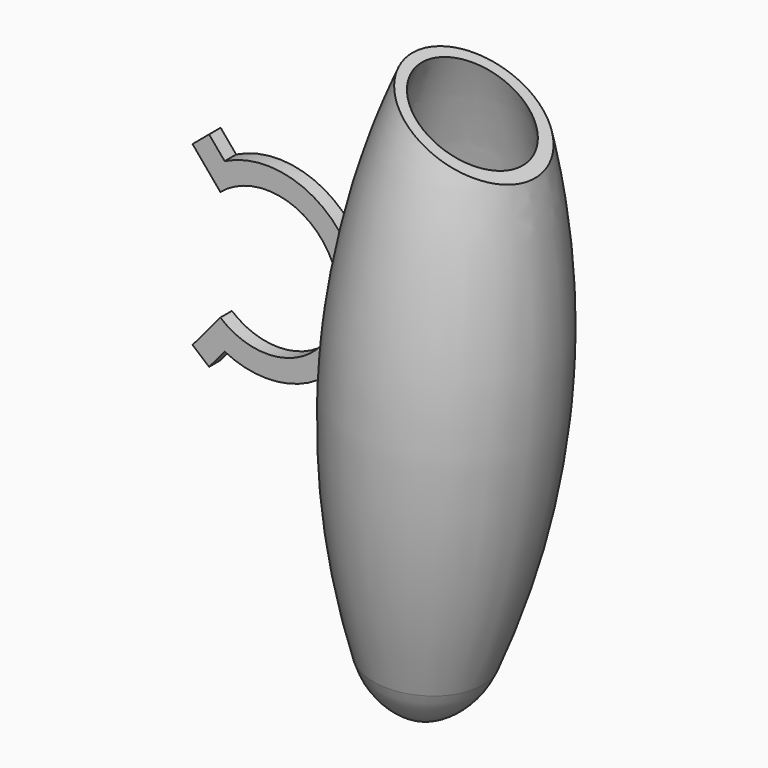
from build123d import *

# Parameters (mm, degrees)
F1_DEPTH = 2
F6_DEPTH = 12.5


with BuildPart() as f1:
    # F0 (on Front) → F1 (new body)
    with BuildSketch(Plane.XZ):
        with BuildLine():
            ThreePointArc((-47.1787418025, 7.6604444312), (-30.7508657056, 0), (-47.1787418025, -7.6604444312))
            Line((-47.1787418025, -7.6604444312), (-51.0354674606, -12.2567110899))
            Line((-51.0354674606, -12.2567110899), (-48.7373341312, -14.185073919))
            Line((-48.7373341312, -14.185073919), (-46.5834239696, -11.6181437457))
            ThreePointArc((-46.5834239696, -11.6181437457), (-27.7508657056, 0), (-46.5834239696, 11.6181437457))
            Line((-46.5834239696, 11.6181437457), (-48.7373341312, 14.185073919))
            Line((-48.7373341312, 14.185073919), (-51.0354674606, 12.2567110899))
            Line((-51.0354674606, 12.2567110899), (-47.1787418025, 7.6604444312))
        make_face()
    extrude(amount=F1_DEPTH)

    # F2 (on Front) → F4 (revolve)
    with BuildSketch(Plane.XZ):
        with BuildLine():
            Line((-20.8099102823, 31.2762754912), (-21.2292668885, 34.0036213387))
            ThreePointArc((-21.2292668885, 34.0036213387), (-31.1177920404, -2.778503979), (-28.1865669375, -40.7537010419))
            ThreePointArc((-28.1865669375, -40.7537010419), (-25.8603182026, -45.310665501), (-21.7827283578, -48.4010731304))
            Line((-21.7827283578, -48.4010731304), (-20.8500489653, -48.821400832))
            Line((-20.8500489653, -48.821400832), (-20.7262617853, -47.2318984557))
            Line((-20.7262617853, -47.2318984557), (-21.1664230409, -47.0335323608))
            ThreePointArc((-21.1664230409, -47.0335323608), (-24.7102844045, -44.3476378466), (-26.7320431707, -40.3871487106))
            ThreePointArc((-26.7320431707, -40.3871487106), (-29.724913629, -4.0634142714), (-20.8099102823, 31.2762754912))
        make_face()
    revolve(axis=Axis((-17.4487205723, 0, -5.1462838666), (0.0776428508, 0, 0.9969812374)))

    # F5 (on Front) → F6 (cut, symmetric)
    with BuildSketch(Plane.XZ):
        Polygon((-33.647916918, 53.8173572632), (-40.2165566231, 42.4401395573), (38.3658243833, -2.9294192704), (48.8641143222, 4.3457121646), align=None)
    extrude(amount=F6_DEPTH, both=True, mode=Mode.SUBTRACT)


solid = f1.part
